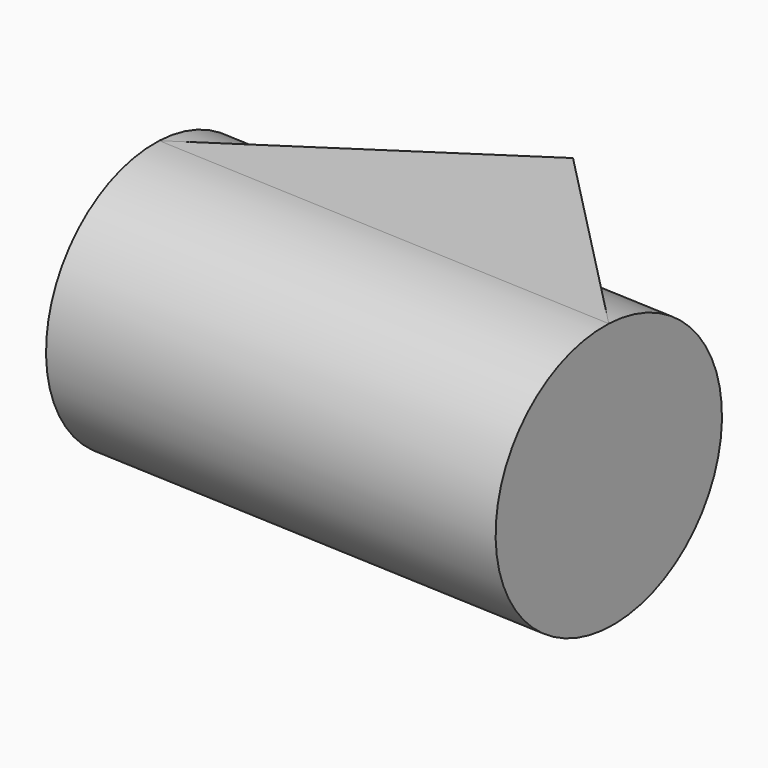
from build123d import *

# Parameters (mm, degrees)
F1_DEPTH  = 61.6
F1_FACE_W = 215.6420267224
F1_FACE_H = 61.6


with BuildPart() as f1:
    # F0 (on Top) → F1 (new body)
    with BuildSketch(Plane.XY):
        Polygon((24.200597778, 64.7449865937), (-100.5296930671, -17.7127569914), (114.8680970073, -27.9731526971), align=None)
    extrude(amount=F1_DEPTH)


with BuildPart() as f2:
    # F1_face (on face) → F2 (revolve)
    with BuildSketch(Plane(origin=(7.1692019701, -22.8429548442, 30.8), x_dir=(0.9988673977, -0.0475806867, 0), z_dir=(-0.0475806867, -0.9988673977, 0))):
        Rectangle(F1_FACE_W, F1_FACE_H)
    revolve(axis=Axis((7.1692019701, -22.8429548442, 0), (0.9988673977, -0.0475806867, 0)))


solid = Compound([f1.part, f2.part])
